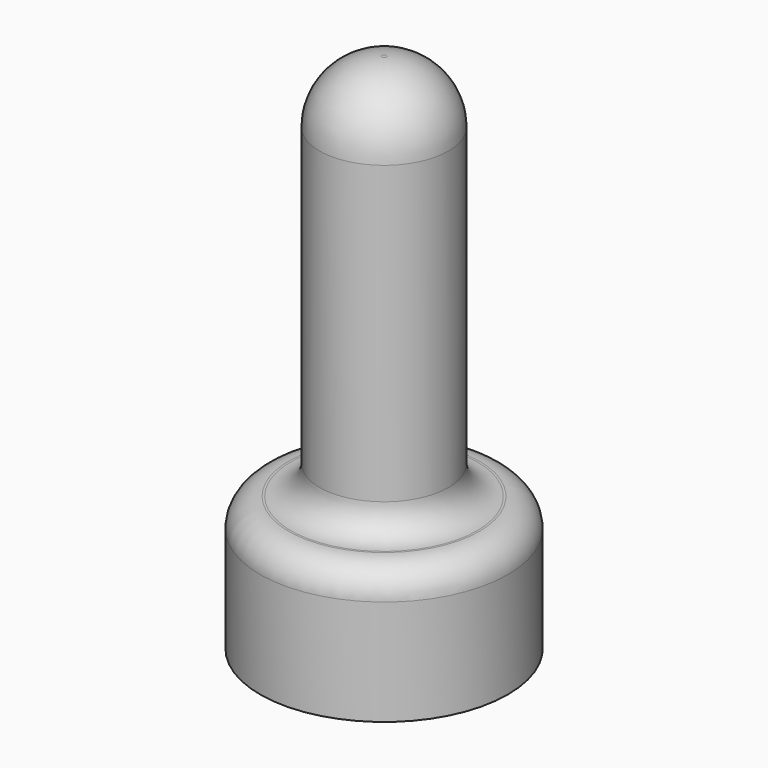
from build123d import *

# Parameters (mm, degrees)
F0_R     = 6.096
F1_DEPTH = 6.604
F2_R     = 3.175
F3_DEPTH = 19.05
F4_R     = 1.4103835631
F5_R     = 3.0660512242


with BuildPart() as f1:
    # F0 (on Top) → F1 (new body)
    with BuildSketch(Plane.XY):
        Circle(F0_R)
    extrude(amount=F1_DEPTH)

    # F2 (on face) → F3 (join)
    with BuildSketch(Plane.XY.offset(6.604)):
        Circle(F2_R)
    extrude(amount=F3_DEPTH)

    # F4
    f4_edges = [f1.edges().sort_by_distance(p)[0] for p in [
        (-6.096, 0, 6.604),
        (-3.175, 0, 6.604),
    ]]
    fillet(f4_edges, radius=F4_R)

    # F5
    f5_edges = [f1.edges().sort_by_distance(p)[0] for p in [
        (3.175, 0, 16.834192),
        (-3.175, 0, 8.014384),
        (-3.175, 0, 25.654),
    ]]
    fillet(f5_edges, radius=F5_R)


solid = f1.part
